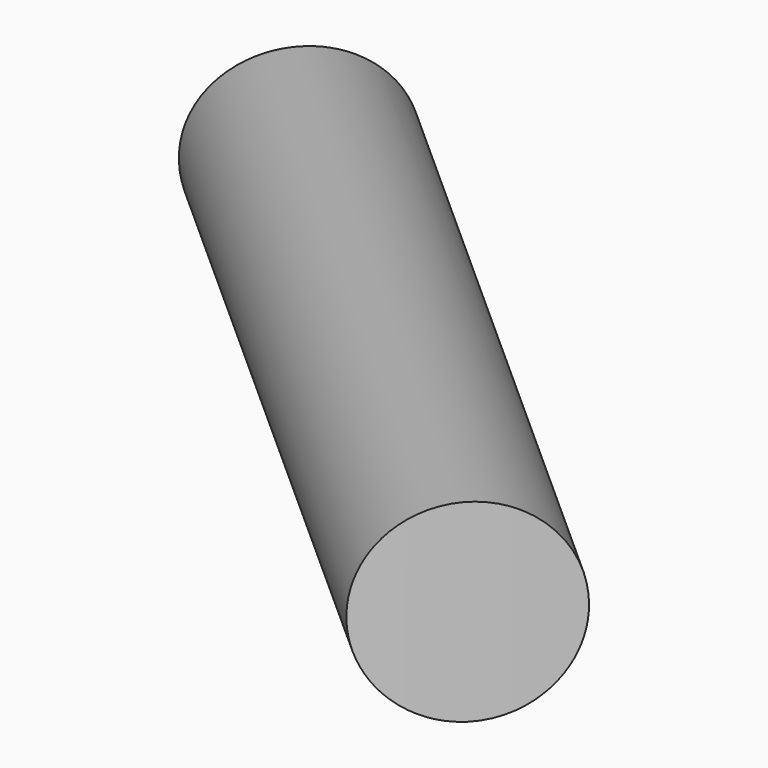
from build123d import *

# Parameters (mm, degrees)
CYLINDER015_R               = 50
CYLINDER015_DEPTH           = 67
CYLINDER014_R               = 55
CYLINDER014_DEPTH           = 67
CYLINDER013_R               = 13
CYLINDER013_DEPTH           = 60
CYLINDER012_R               = 3
CYLINDER012_DEPTH           = 54
CYLINDER012_PLACEMENT_ANGLE = 80
CUT009_PLACEMENT_ANGLE      = 45


with BuildPart() as inner001:
    # Cylinder015 → Cylinder015 (new body)
    with BuildSketch(Plane.XY):
        Circle(CYLINDER015_R)
    extrude(amount=CYLINDER015_DEPTH)


with BuildPart() as case001:
    # Cylinder014 → Cylinder014 (new body)
    with BuildSketch(Plane.XY):
        Circle(CYLINDER014_R)
    extrude(amount=CYLINDER014_DEPTH)

    # Cut008: cut Inner001
    add(inner001.part, mode=Mode.SUBTRACT)


with BuildPart() as cylinder016:
    # Cylinder013 → Cylinder013 (new body)
    with BuildSketch(Plane.XY):
        Circle(CYLINDER013_R)
    extrude(amount=CYLINDER013_DEPTH)


with BuildPart() as support_final:
    # Cylinder012 → Cylinder012 (new body)
    with BuildSketch(Plane.XY):
        Circle(CYLINDER012_R)
    extrude(amount=CYLINDER012_DEPTH)


with BuildPart() as support_final_1:
    # Cylinder012 placement: moved
    add(support_final.part.moved(Location((0, 0, 25))).rotate(Axis((0, 0, 25), (0, 1, 0)), CYLINDER012_PLACEMENT_ANGLE))

    # Cut007: cut Cylinder016
    add(cylinder016.part, mode=Mode.SUBTRACT)

    # Cut009: cut Case001
    add(case001.part, mode=Mode.SUBTRACT)


with BuildPart() as support_final_2:
    # Cut009 placement: moved
    add(support_final_1.part.rotate(Axis((0, 0, 0), (0, 0, 1)), CUT009_PLACEMENT_ANGLE))


with BuildPart() as part_mirroring002:
    # Part__Mirroring002: instance of Support Final
    add(support_final_2.part.mirror(Plane(origin=(0, 0, 0), x_dir=(1, 0, 0), z_dir=(0, 1, 0))))


solid = part_mirroring002.part
